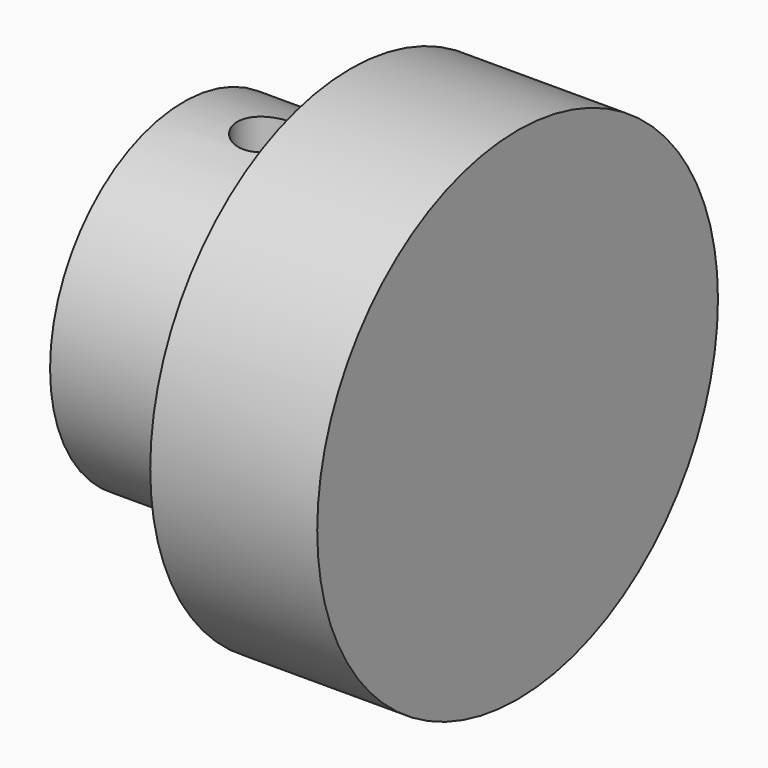
from build123d import *

# Parameters (mm, degrees)
F0_R     = 9.525
F1_DEPTH = 12.7
F2_R     = 9.525
F2_R_2   = 6.35
F3_DEPTH = 6.35
F5_DEPTH = 6.35
F7_D     = 2.2606
F7_DEPTH = 8.256


with BuildPart() as f1:
    # F0 (on Right) → F1 (new body)
    with BuildSketch(Plane.YZ):
        Circle(F0_R)
    extrude(amount=F1_DEPTH)

    # F2 (on face) → F3 (cut)
    with BuildSketch(Plane(origin=(0, 0, 0), x_dir=(0, -1, 0), z_dir=(-1, 0, 0))):
        Circle(F2_R)
        Circle(F2_R_2, mode=Mode.SUBTRACT)
    extrude(amount=-F3_DEPTH, mode=Mode.SUBTRACT)

    # F4 (on face) → F5 (cut)
    with BuildSketch(Plane(origin=(0, 0, 0), x_dir=(0, -1, 0), z_dir=(-1, 0, 0))):
        with BuildLine():
            Line((2.9099355663, 1.27), (-2.9099355663, 1.27))
            ThreePointArc((-2.9099355663, 1.27), (0, -3.175), (2.9099355663, 1.27))
        make_face()
    extrude(amount=-F5_DEPTH, mode=Mode.SUBTRACT)

    # F7 (through all, one way)
    with BuildSketch(Plane(origin=(0, 0, 1.27), x_dir=(1, 0, 0), z_dir=(0, 0, -1))):
        with Locations((3.175, 0)):
            Circle(F7_D / 2)
    extrude(amount=-F7_DEPTH, mode=Mode.SUBTRACT)


solid = f1.part
